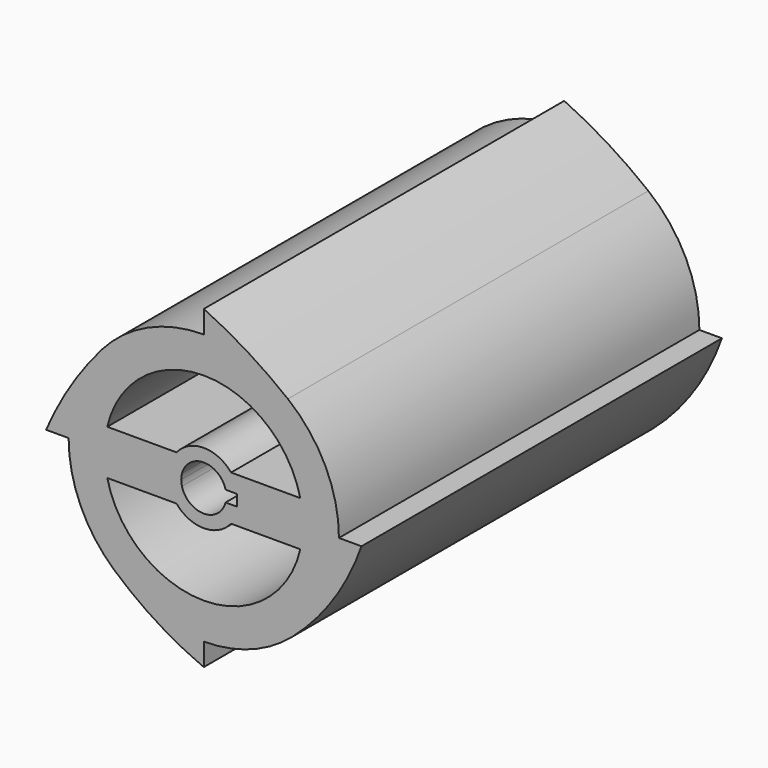
from build123d import *

# Parameters (mm, degrees)
F1_DEPTH = 127


with BuildPart() as f1:
    # F0 (on Front) → F1 (new body)
    with BuildSketch(Plane.XZ):
        with BuildLine():
            Line((9.9733600981, 0), (38.1, 0))
            ThreePointArc((38.1, 0), (34.3137442359, 16.5582896616), (23.7075088443, 29.8255599176))
            ThreePointArc((23.7075088443, 29.8255599176), (12.5550023325, 35.9719601416), (0, 38.1))
            ThreePointArc((0, 38.1), (-15.8184490109, 34.6610252429), (-28.7812945128, 24.9649171071))
            ThreePointArc((-28.7812945128, 24.9649171071), (-35.6943785556, 13.3237134287), (-38.1, 0))
            Line((-38.1, 0), (-9.9733600981, 0))
            ThreePointArc((-9.9733600981, 0), (-9.38533667, 3.3739246044), (-7.6906054148, 6.35))
            Line((-7.6906054148, 6.35), (-27.2088423127, 6.35))
            ThreePointArc((-27.2088423127, 6.35), (0, 27.94), (27.2088423127, 6.35))
            Line((27.2088423127, 6.35), (7.6906054148, 6.35))
            ThreePointArc((7.6906054148, 6.35), (9.38533667, 3.3739246044), (9.9733600981, 0))
        make_face()
        with BuildLine():
            Line((44.45, 0), (38.1, 0))
            ThreePointArc((38.1, 0), (34.6839293822, -15.7681654802), (25.0482917265, -28.7087631497))
            ThreePointArc((25.0482917265, -28.7087631497), (36.6190780289, -15.6181029752), (44.45, 0))
        make_face()
        with BuildLine():
            ThreePointArc((25.0482917265, -28.7087631497), (34.6839293822, -15.7681654802), (38.1, 0))
            Line((38.1, 0), (9.9733600981, 0))
            ThreePointArc((9.9733600981, 0), (9.38533667, -3.3739246044), (7.6906054148, -6.35))
            Line((7.6906054148, -6.35), (27.2088423127, -6.35))
            ThreePointArc((27.2088423127, -6.35), (0, -27.94), (-27.2088423127, -6.35))
            Line((-27.2088423127, -6.35), (-7.6906054148, -6.35))
            ThreePointArc((-7.6906054148, -6.35), (-9.38533667, -3.3739246044), (-9.9733600981, 0))
            Line((-9.9733600981, 0), (-38.1, 0))
            ThreePointArc((-38.1, 0), (-34.7686488709, -15.5804703297), (-25.3571624308, -28.4363203221))
            ThreePointArc((-25.3571624308, -28.4363203221), (-13.5680911651, -35.6022036135), (0, -38.1))
            ThreePointArc((0, -38.1), (13.3754649265, -35.6750184023), (25.0482917265, -28.7087631497))
        make_face()
        with BuildLine():
            ThreePointArc((0, 38.1), (12.5550023325, 35.9719601416), (23.7075088443, 29.8255599176))
            ThreePointArc((23.7075088443, 29.8255599176), (12.2888873877, 37.8431689221), (0, 44.45))
            Line((0, 44.45), (0, 38.1))
        make_face()
        with BuildLine():
            Line((0, -44.45), (0, -38.1))
            ThreePointArc((0, -38.1), (-13.5680911651, -35.6022036135), (-25.3571624308, -28.4363203221))
            ThreePointArc((-25.3571624308, -28.4363203221), (-13.3404167742, -37.491156131), (0, -44.45))
        make_face()
        with BuildLine():
            ThreePointArc((-38.1, 0), (-35.6943785556, 13.3237134287), (-28.7812945128, 24.9649171071))
            ThreePointArc((-28.7812945128, 24.9649171071), (-37.5788399133, 13.0869861794), (-44.45, 0))
            Line((-44.45, 0), (-38.1, 0))
        make_face()
        with BuildLine():
            ThreePointArc((7.6906054148, -6.35), (9.38533667, -3.3739246044), (9.9733600981, 0))
            Line((9.9733600981, 0), (9.3917766557, 0))
            Line((9.3917766557, 0), (9.3917766557, -1.5875))
            Line((9.3917766557, -1.5875), (6.1483610621, -1.5875))
            ThreePointArc((6.1483610621, -1.5875), (0, -6.35), (-6.1483610621, -1.5875))
            Line((-6.1483610621, -1.5875), (-9.3917766557, -1.5875))
            Line((-9.3917766557, -1.5875), (-9.3917766557, 0))
            Line((-9.3917766557, 0), (-9.9733600981, 0))
            ThreePointArc((-9.9733600981, 0), (-9.38533667, -3.3739246044), (-7.6906054148, -6.35))
            ThreePointArc((-7.6906054148, -6.35), (0, -9.9733600981), (7.6906054148, -6.35))
        make_face()
        with BuildLine():
            Line((9.3917766557, 0), (9.9733600981, 0))
            ThreePointArc((9.9733600981, 0), (9.38533667, 3.3739246044), (7.6906054148, 6.35))
            ThreePointArc((7.6906054148, 6.35), (0, 9.9733600981), (-7.6906054148, 6.35))
            ThreePointArc((-7.6906054148, 6.35), (-9.38533667, 3.3739246044), (-9.9733600981, 0))
            Line((-9.9733600981, 0), (-9.3917766557, 0))
            Line((-9.3917766557, 0), (-9.3917766557, 1.5875))
            Line((-9.3917766557, 1.5875), (-6.1483610621, 1.5875))
            ThreePointArc((-6.1483610621, 1.5875), (0, 6.35), (6.1483610621, 1.5875))
            Line((6.1483610621, 1.5875), (9.3917766557, 1.5875))
            Line((9.3917766557, 1.5875), (9.3917766557, 0))
        make_face()
        with BuildLine():
            Line((-9.3917766557, 0), (-6.35, 0))
            ThreePointArc((-6.35, 0), (-6.2993885713, 0.8001272573), (-6.1483610621, 1.5875))
            Line((-6.1483610621, 1.5875), (-9.3917766557, 1.5875))
            Line((-9.3917766557, 1.5875), (-9.3917766557, 0))
        make_face()
        with BuildLine():
            ThreePointArc((-6.1483610621, -1.5875), (-6.2993885713, -0.8001272573), (-6.35, 0))
            Line((-6.35, 0), (-9.3917766557, 0))
            Line((-9.3917766557, 0), (-9.3917766557, -1.5875))
            Line((-9.3917766557, -1.5875), (-6.1483610621, -1.5875))
        make_face()
    extrude(amount=F1_DEPTH)


solid = f1.part
